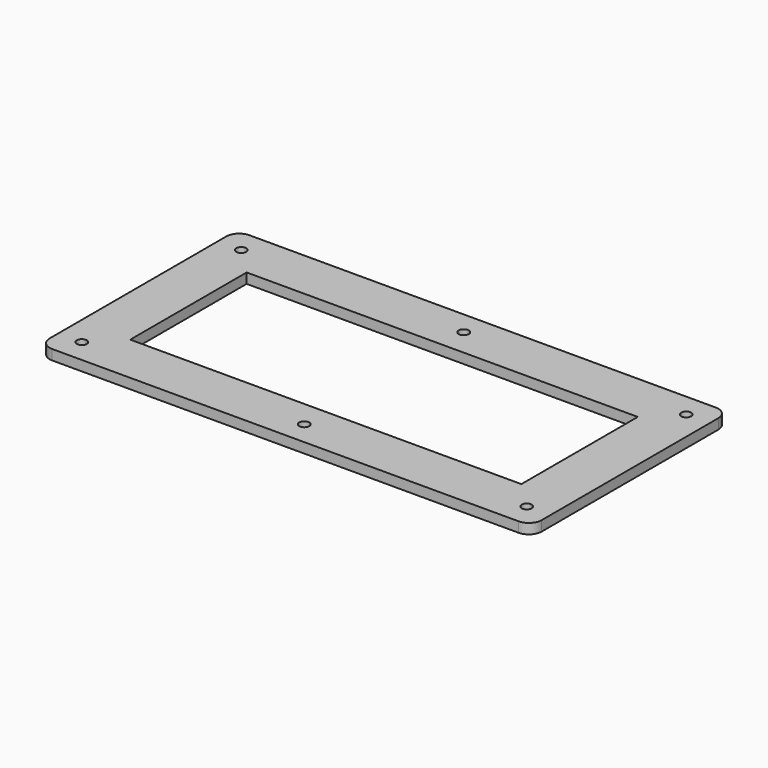
from build123d import *

# Parameters (mm, degrees)
F0_W     = 116.25
F0_H     = 43.25
F1_DEPTH = 3


with BuildPart() as f1:
    # F0 (on Top) → F1 (new body)
    with BuildSketch(Plane.XY):
        with BuildLine():
            Line((69.315, 36.625), (-69.315, 36.625))
            ThreePointArc((-69.315, 36.625), (-72.009077, 35.509077), (-73.125, 32.815))
            Line((-73.125, 32.815), (-73.125, -32.815))
            ThreePointArc((-73.125, -32.815), (-72.009077, -35.509077), (-69.315, -36.625))
            Line((-69.315, -36.625), (69.315, -36.625))
            ThreePointArc((69.315, -36.625), (72.009077, -35.509077), (73.125, -32.815))
            Line((73.125, -32.815), (73.125, 32.815))
            ThreePointArc((73.125, 32.815), (72.009077, 35.509077), (69.315, 36.625))
        make_face()
        with BuildLine():
            ThreePointArc((-66.125, 28.125), (-67.18566, 30.68566), (-64.625, 29.625))
            Line((-64.625, 29.625), (-1.5, 29.625))
            ThreePointArc((-1.5, 29.625), (0, 31.125), (1.5, 29.625))
            Line((1.5, 29.625), (64.625, 29.625))
            ThreePointArc((64.625, 29.625), (66.125, 31.125), (67.625, 29.625))
            ThreePointArc((67.625, 29.625), (67.18566, 28.56434), (66.125, 28.125))
            Line((66.125, 28.125), (66.125, -28.125))
            ThreePointArc((66.125, -28.125), (67.18566, -28.56434), (67.625, -29.625))
            ThreePointArc((67.625, -29.625), (66.125, -31.125), (64.625, -29.625))
            Line((64.625, -29.625), (1.5, -29.625))
            ThreePointArc((1.5, -29.625), (0, -31.125), (-1.5, -29.625))
            Line((-1.5, -29.625), (-64.625, -29.625))
            ThreePointArc((-64.625, -29.625), (-67.18566, -30.68566), (-66.125, -28.125))
            Line((-66.125, -28.125), (-66.125, 28.125))
        make_face(mode=Mode.SUBTRACT)
        with BuildLine():
            Line((-1.5, 29.625), (-64.625, 29.625))
            ThreePointArc((-64.625, 29.625), (-65.06434, 28.56434), (-66.125, 28.125))
            Line((-66.125, 28.125), (-66.125, -28.125))
            ThreePointArc((-66.125, -28.125), (-65.06434, -28.56434), (-64.625, -29.625))
            Line((-64.625, -29.625), (-1.5, -29.625))
            ThreePointArc((-1.5, -29.625), (0, -28.125), (1.5, -29.625))
            Line((1.5, -29.625), (64.625, -29.625))
            ThreePointArc((64.625, -29.625), (65.06434, -28.56434), (66.125, -28.125))
            Line((66.125, -28.125), (66.125, 28.125))
            ThreePointArc((66.125, 28.125), (65.06434, 28.56434), (64.625, 29.625))
            Line((64.625, 29.625), (1.5, 29.625))
            ThreePointArc((1.5, 29.625), (0, 28.125), (-1.5, 29.625))
        make_face()
        Rectangle(F0_W, F0_H, mode=Mode.SUBTRACT)
    extrude(amount=F1_DEPTH)


solid = f1.part
